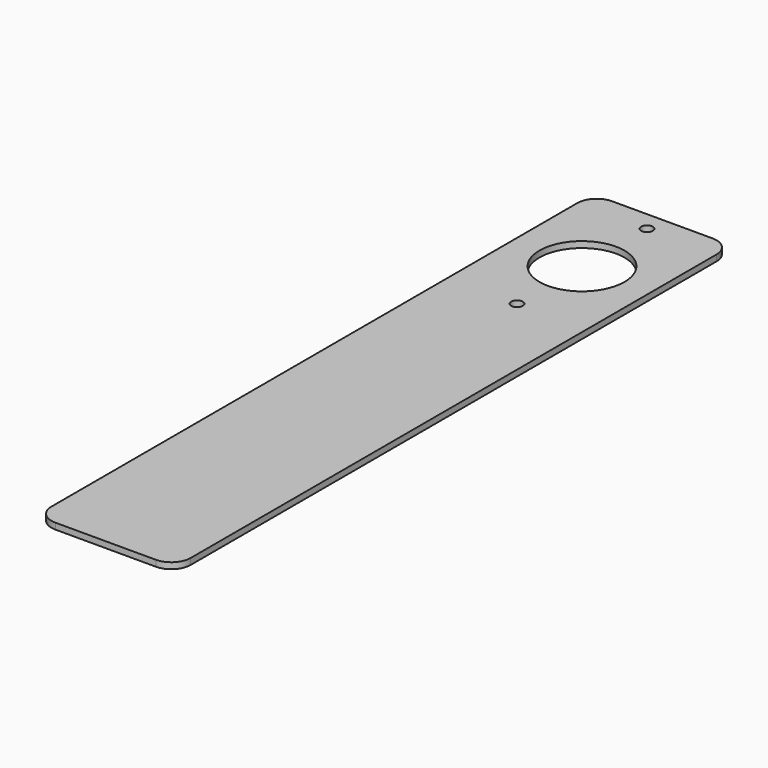
from build123d import *

# Parameters (mm, degrees)
F0_R     = 1.5
F0_R_2   = 11
F1_DEPTH = 1.5875


with BuildPart() as f1:
    # F0 (on Top) → F1 (new body)
    with BuildSketch(Plane.XY):
        with BuildLine():
            Line((13, 180), (-13, 180))
            ThreePointArc((-13, 180), (-16.535534, 178.535534), (-18, 175))
            Line((-18, 175), (-18, 5))
            ThreePointArc((-18, 5), (-16.535534, 1.464466), (-13, 0))
            Line((-13, 0), (13, 0))
            ThreePointArc((13, 0), (16.535534, 1.464466), (18, 5))
            Line((18, 5), (18, 175))
            ThreePointArc((18, 175), (16.535534, 178.535534), (13, 180))
        make_face()
        with Locations((0, 133)):
            Circle(F0_R, mode=Mode.SUBTRACT)
        with Locations((0, 154)):
            Circle(F0_R_2, mode=Mode.SUBTRACT)
        with Locations((0, 175)):
            Circle(F0_R, mode=Mode.SUBTRACT)
    extrude(amount=F1_DEPTH)


solid = f1.part
